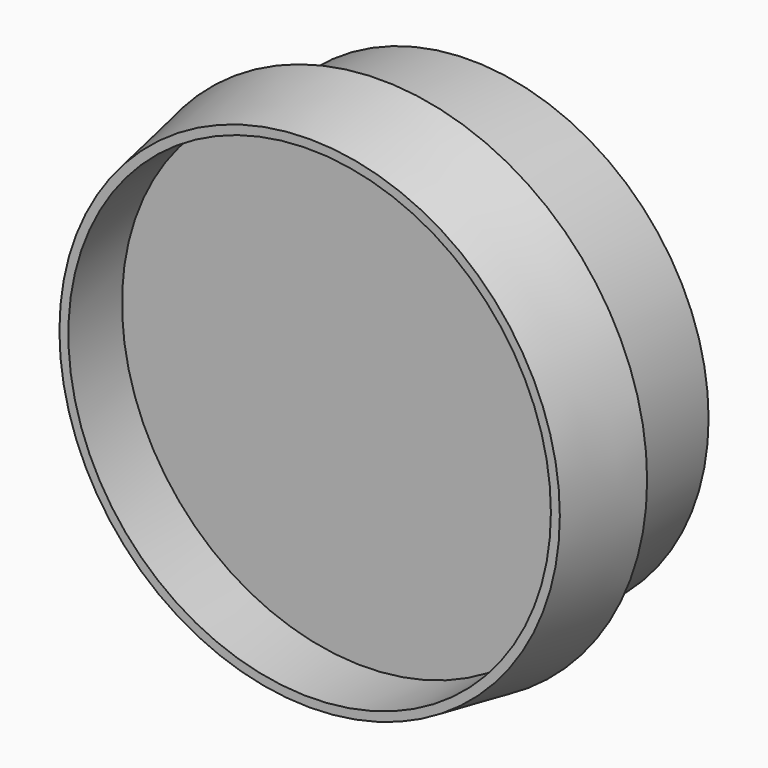
from build123d import *

# Parameters (mm, degrees)
F0_R     = 10.65
F1_DEPTH = 5
F0_R_2   = 11.9
F2_DEPTH = 4
F2_TAPER = 10
F3_R     = 10.7946920772
F4_DEPTH = 3


with BuildPart() as f1:
    # F0 (on Front) → F1 (new body)
    with BuildSketch(Plane.XZ):
        Circle(F0_R)
    extrude(amount=-F1_DEPTH)

    # F0 (on Front) → F2 (join)
    with BuildSketch(Plane.XZ):
        Circle(F0_R_2)
        Circle(F0_R, mode=Mode.SUBTRACT)
        Circle(F0_R)
    extrude(amount=F2_DEPTH, taper=F2_TAPER)

    # F3 (on face) → F4 (cut)
    with BuildSketch(Plane.XZ.offset(4)):
        Circle(F3_R)
    extrude(amount=-F4_DEPTH, mode=Mode.SUBTRACT)


solid = f1.part
